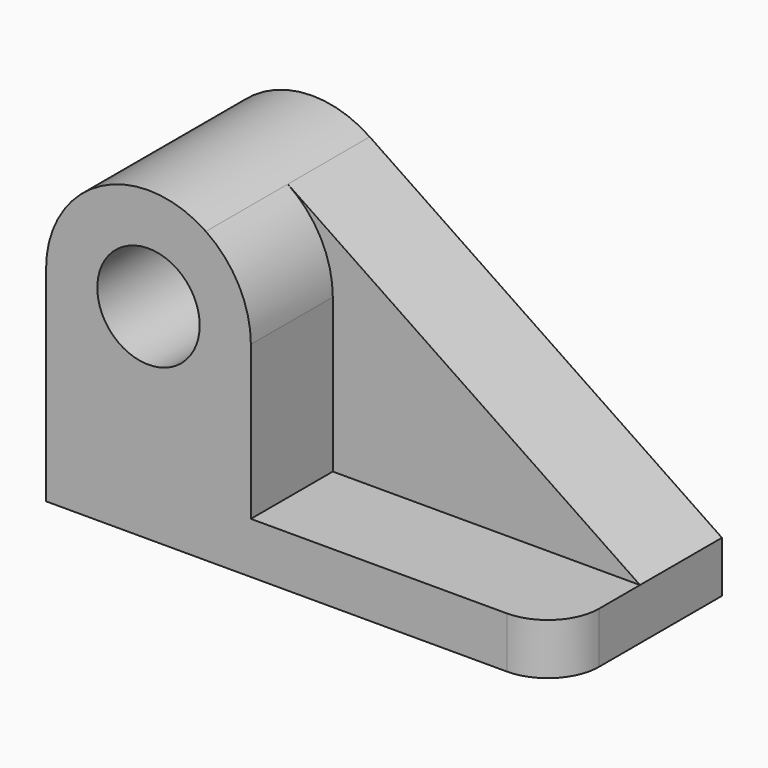
from build123d import *

# Parameters (mm, degrees)
F0_R     = 12.7
F1_DEPTH = 25.4
F2_R     = 12.7
F3_DEPTH = 25.4
F4_R     = 12.7


with BuildPart() as f1:
    # F0 (on Front) → F1 (new body)
    with BuildSketch(Plane.XZ):
        with BuildLine():
            ThreePointArc((-23.658174, 45.730914), (-49.802306, 47.133185), (-63.296047, 24.696585))
            Line((-63.296047, 24.696585), (-63.296047, -26.103415))
            Line((-63.296047, -26.103415), (63.703953, -26.103415))
            Line((63.703953, -26.103415), (63.703953, -13.403415))
            Line((63.703953, -13.403415), (-23.658174, 45.730914))
        make_face()
        with Locations((-37.896047, 24.696585)):
            Circle(F0_R, mode=Mode.SUBTRACT)
    extrude(amount=F1_DEPTH)

    # F2 (on face) → F3 (join)
    with BuildSketch(Plane.XZ.offset(25.4)):
        with BuildLine():
            Line((-12.496047, -13.403415), (-12.496047, 24.696585))
            ThreePointArc((-12.496047, 24.696585), (-15.459448, 36.602845), (-23.658174, 45.730914))
            ThreePointArc((-23.658174, 45.730914), (-49.802306, 47.133185), (-63.296047, 24.696585))
            Line((-63.296047, 24.696585), (-63.296047, -13.403415))
            Line((-63.296047, -13.403415), (-63.296047, -26.103415))
            Line((-63.296047, -26.103415), (63.703953, -26.103415))
            Line((63.703953, -26.103415), (63.703953, -13.403415))
            Line((63.703953, -13.403415), (-12.496047, -13.403415))
        make_face()
        with Locations((-37.896047, 24.696585)):
            Circle(F2_R, mode=Mode.SUBTRACT)
    extrude(amount=F3_DEPTH)

    # F4
    f4_edges = [f1.edges().sort_by_distance(p)[0] for p in [
        (63.703953, -50.8, -19.753415),
    ]]
    fillet(f4_edges, radius=F4_R)


solid = f1.part
